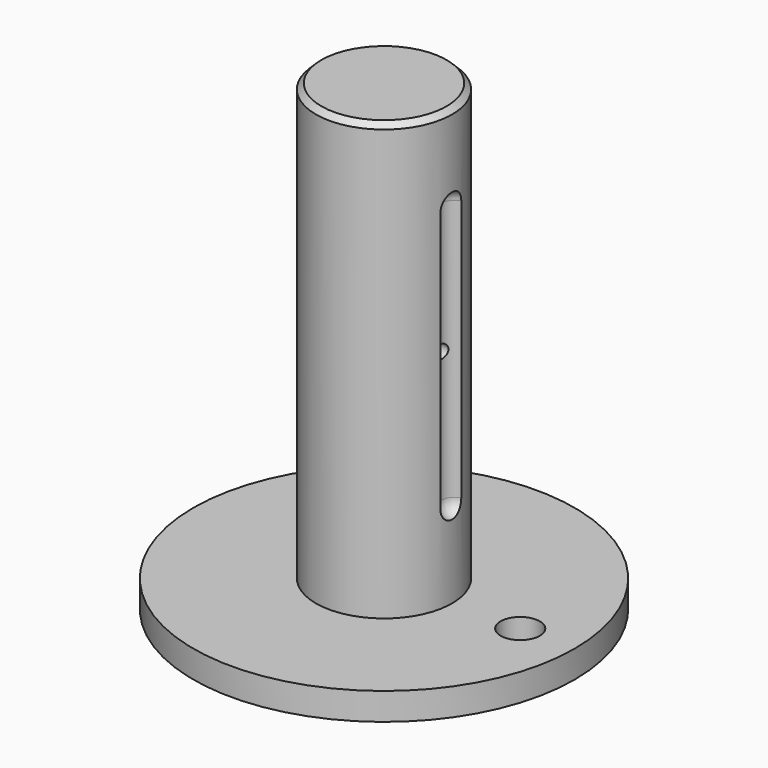
from build123d import *

# Parameters (mm, degrees)
SKETCH002_R     = 1.25
POCKET_DEPTH    = 13
SKETCH003_R     = 3.6
POCKET001_DEPTH = 5.001
CHAMFER_SIZE    = 1
SKETCH006_R     = 1.25
POCKET002_DEPTH = 13
SKETCH007_R     = 3.6
POCKET003_DEPTH = 5.001
CHAMFER001_SIZE = 1


with BuildPart() as body:
    # Sketch → Revolution (revolve)
    with BuildSketch(Plane.XZ):
        Polygon((0, 85), (-12.5, 85), (-12.5, 5), (-35, 5), (-35, 0), (-4, 0), (-4, 55), (0, 57.309401), align=None)
    revolve(axis=Axis((0, 0, 0), (0, 0, 1)))

    # Sketch001 (on DatumPlane) → Groove (revolve, cut)
    with BuildSketch(Plane.XZ):
        with BuildLine():
            Line((13, 71.5), (13, 18.5))
            ThreePointArc((10.5, 21), (11.232233, 19.232233), (13, 18.5))
            Line((10.5, 69), (10.5, 21))
            ThreePointArc((13, 71.5), (11.232233, 70.767767), (10.5, 69))
        make_face()
    revolve(axis=Axis((13, 0, 82.544502), (0, 0, -1)), mode=Mode.SUBTRACT)

    # Sketch002 (on DatumPlane) → Pocket (cut)
    with BuildSketch(Plane.YZ.offset(13)):
        with Locations((0, 45)):
            Circle(SKETCH002_R)
    extrude(amount=-POCKET_DEPTH, mode=Mode.SUBTRACT)

    # Sketch003 (on Face3 of Pocket) → Pocket001 (cut, through all)
    with BuildSketch(Plane(origin=(0, 0, 5), x_dir=(-1, 0, 0), z_dir=(0, 0, 1))):
        with Locations((-25, 0)):
            Circle(SKETCH003_R)
    extrude(amount=-POCKET001_DEPTH, mode=Mode.SUBTRACT)

    # Chamfer
    chamfer_edges = [body.edges().sort_by_distance(p)[0] for p in [
        (12.5, 0, 85),
    ]]
    chamfer(chamfer_edges, length=CHAMFER_SIZE)


with BuildPart() as chamfer001:
    # Sketch004 → Revolution001 (revolve)
    with BuildSketch(Plane.XZ):
        Polygon((0, 85), (-12.5, 85), (-12.5, 5), (-35, 5), (-35, 0), (-4, 0), (-4, 55), (0, 57.309401), align=None)
    revolve(axis=Axis((0, 0, 0), (0, 0, 1)))

    # Sketch005 (on DatumPlane) → Groove001 (revolve, cut)
    with BuildSketch(Plane.XZ):
        with BuildLine():
            Line((13, 71.5), (13, 18.5))
            ThreePointArc((10.5, 21), (11.232233, 19.232233), (13, 18.5))
            Line((10.5, 69), (10.5, 21))
            ThreePointArc((13, 71.5), (11.232233, 70.767767), (10.5, 69))
        make_face()
    revolve(axis=Axis((13, 0, 82.544502), (0, 0, -1)), mode=Mode.SUBTRACT)

    # Sketch006 (on DatumPlane) → Pocket002 (cut)
    with BuildSketch(Plane.YZ.offset(13)):
        with Locations((0, 45)):
            Circle(SKETCH006_R)
    extrude(amount=-POCKET002_DEPTH, mode=Mode.SUBTRACT)

    # Sketch007 (on Face3 of Pocket002) → Pocket003 (cut, through all)
    with BuildSketch(Plane(origin=(0, 0, 5), x_dir=(-1, 0, 0), z_dir=(0, 0, 1))):
        with Locations((-25, 0)):
            Circle(SKETCH007_R)
    extrude(amount=-POCKET003_DEPTH, mode=Mode.SUBTRACT)

    # Chamfer001
    chamfer001_edges = [chamfer001.edges().sort_by_distance(p)[0] for p in [
        (12.5, 0, 85),
    ]]
    chamfer(chamfer001_edges, length=CHAMFER001_SIZE)


solid = Compound([body.part, chamfer001.part])
